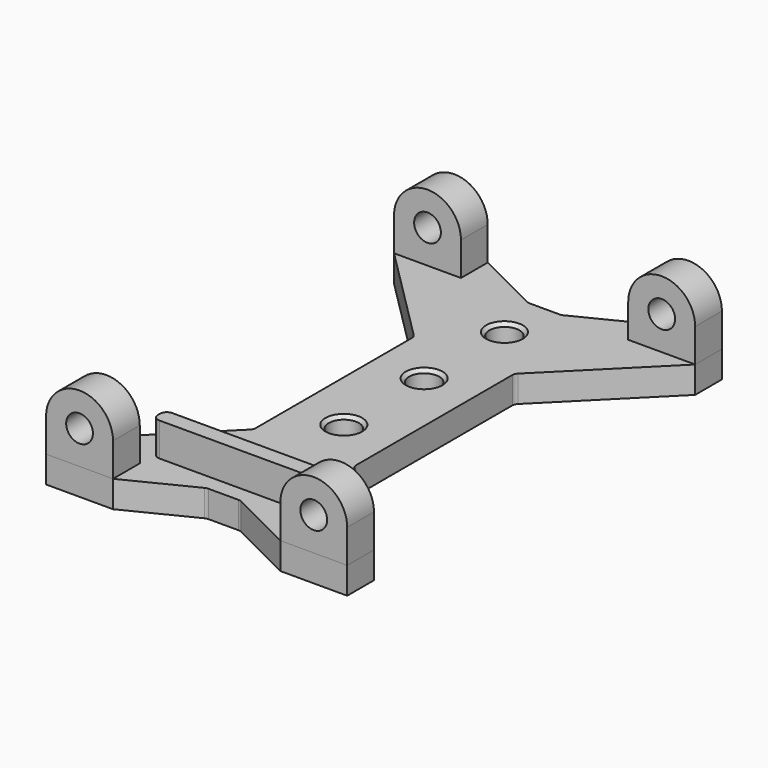
from build123d import *

# Parameters (mm, degrees)
SKETCH_R         = 2
EXTRUDE001_DEPTH = 5
EXTRUDE002_DEPTH = 5
EXTRUDE003_DEPTH = 5
EXTRUDE004_DEPTH = 5
SKETCH003_R      = 2.25
PAD_DEPTH        = 4
CHAMFER_SIZE     = 0.5
FILLET_R         = 1
SKETCH004_W      = 25
SKETCH004_H      = 5
PAD001_DEPTH     = 2.4
FILLET001_R      = 1


with BuildPart() as rodholder1:
    # Sketch → Extrude001 (new body)
    with BuildSketch(Plane.XZ):
        with BuildLine():
            Line((0, 5), (0, 0))
            Line((0, 0), (10, 0))
            Line((10, 0), (10, 5))
            ThreePointArc((10, 5), (5, 10), (0, 5))
        make_face()
        with Locations((5, 5)):
            Circle(SKETCH_R, mode=Mode.SUBTRACT)
    extrude(amount=-EXTRUDE001_DEPTH)


with BuildPart() as rodholder1_1:
    # Extrude001 placement: moved
    add(rodholder1.part.moved(Location((0, 0, 4))))


with BuildPart() as rodholder2:
    # Sketch → Extrude002 (new body)
    with BuildSketch(Plane.XZ):
        with BuildLine():
            Line((0, 5), (0, 0))
            Line((0, 0), (10, 0))
            Line((10, 0), (10, 5))
            ThreePointArc((10, 5), (5, 10), (0, 5))
        make_face()
        with Locations((5, 5)):
            Circle(SKETCH_R, mode=Mode.SUBTRACT)
    extrude(amount=-EXTRUDE002_DEPTH)


with BuildPart() as rodholder2_1:
    # Extrude002 placement: moved
    add(rodholder2.part.moved(Location((35, 0, 4))))


with BuildPart() as rodholder3:
    # Sketch → Extrude003 (new body)
    with BuildSketch(Plane.XZ):
        with BuildLine():
            Line((0, 5), (0, 0))
            Line((0, 0), (10, 0))
            Line((10, 0), (10, 5))
            ThreePointArc((10, 5), (5, 10), (0, 5))
        make_face()
        with Locations((5, 5)):
            Circle(SKETCH_R, mode=Mode.SUBTRACT)
    extrude(amount=-EXTRUDE003_DEPTH)


with BuildPart() as rodholder3_1:
    # Extrude003 placement: moved
    add(rodholder3.part.moved(Location((0, 65, 4))))


with BuildPart() as rodholder4:
    # Sketch → Extrude004 (new body)
    with BuildSketch(Plane.XZ):
        with BuildLine():
            Line((0, 5), (0, 0))
            Line((0, 0), (10, 0))
            Line((10, 0), (10, 5))
            ThreePointArc((10, 5), (5, 10), (0, 5))
        make_face()
        with Locations((5, 5)):
            Circle(SKETCH_R, mode=Mode.SUBTRACT)
    extrude(amount=-EXTRUDE004_DEPTH)


with BuildPart() as rodholder4_1:
    # Extrude004 placement: moved
    add(rodholder4.part.moved(Location((35, 65, 4))))


with BuildPart() as obj1:
    # Sketch003 → Pad (new body)
    with BuildSketch(Plane.XY):
        Polygon((0, 0), (10, 0), (20, 5), (25, 5), (35, 0), (45, 0), (45, 5), (30, 20), (30, 50), (45, 65), (45, 70), (35, 70), (25, 65), (20, 65), (10, 70), (0, 70), (0, 65), (15, 50), (15, 20), (0, 5), align=None)
        with Locations((22.5, 57.5)):
            Circle(SKETCH003_R, mode=Mode.SUBTRACT)
        with Locations((22.5, 42.5)):
            Circle(SKETCH003_R, mode=Mode.SUBTRACT)
        with Locations((22.5, 27.5)):
            Circle(SKETCH003_R, mode=Mode.SUBTRACT)
        with Locations((22.5, 12.5)):
            Circle(SKETCH003_R, mode=Mode.SUBTRACT)
    extrude(amount=PAD_DEPTH)

    # Chamfer
    chamfer_edges = [obj1.edges().sort_by_distance(p)[0] for p in [
        (20.25, 12.5, 4),
        (20.25, 27.5, 4),
        (20.25, 42.5, 4),
        (20.25, 57.5, 4),
    ]]
    chamfer(chamfer_edges, length=CHAMFER_SIZE)

    # Fillet
    fillet_edges = [obj1.edges().sort_by_distance(p)[0] for p in [
        (15, 50, 2),
        (15, 20, 2),
        (30, 20, 2),
        (30, 50, 2),
        (25, 65, 2),
        (20, 65, 2),
        (25, 5, 2),
        (20, 5, 2),
    ]]
    fillet(fillet_edges, radius=FILLET_R)


with BuildPart() as obj2:
    # Sketch004 → Pad001 (new body)
    with BuildSketch(Plane.XZ):
        with Locations((12.5, 2.5)):
            Rectangle(SKETCH004_W, SKETCH004_H)
    extrude(amount=-PAD001_DEPTH)

    # Fillet001
    fillet001_edges = [obj2.edges().sort_by_distance(p)[0] for p in [
        (0, 2.4, 2.5),
        (0, 0, 2.5),
        (25, 2.4, 2.5),
        (25, 0, 2.5),
    ]]
    fillet(fillet001_edges, radius=FILLET001_R)


with BuildPart() as obj2_1:
    # Body001 placement: moved
    add(obj2.part.moved(Location((10, 7.4, 4))))


solid = Compound([rodholder1_1.part, rodholder2_1.part, rodholder3_1.part, rodholder4_1.part, obj1.part, obj2_1.part])
